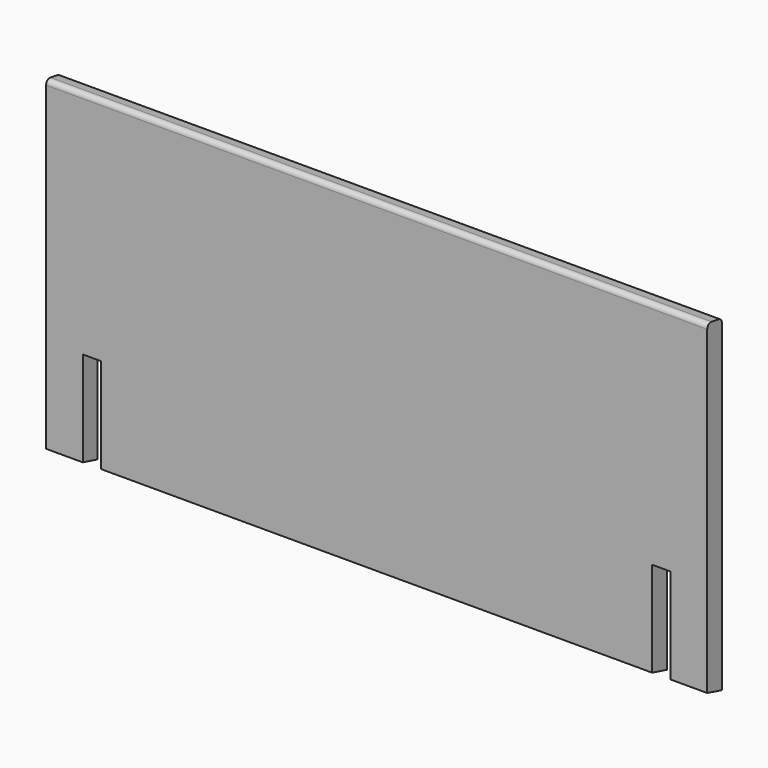
from build123d import *

# Parameters (mm, degrees)
F1_DEPTH = 25.4
F3_DEPTH = 914.4
F4_R     = 6.35
F6_DEPTH = 914.401


with BuildPart() as f1:
    # F0 (on Front) → F1 (new body)
    with BuildSketch(Plane.XZ):
        Polygon((483.0016511798, 164.7552716235), (-431.3983488202, 164.7552716235), (-431.3983488202, -292.4447283765), (-380.5983488202, -292.4447283765), (-380.5983488202, -154.1671283765), (-355.1983488202, -154.1671283765), (-355.1983488202, -292.4447283765), (406.8016511798, -292.4447283765), (406.8016511798, -154.1671283765), (432.2016511798, -154.1671283765), (432.2016511798, -292.4447283765), (483.0016511798, -292.4447283765), align=None)
        Polygon((483.0016511798, 164.7552716235), (-431.3983488202, 164.7552716235), (-431.3983488202, -292.4447283765), (-380.5983488202, -292.4447283765), (-380.5983488202, -154.1671283765), (-355.1983488202, -154.1671283765), (-355.1983488202, -292.4447283765), (406.8016511798, -292.4447283765), (406.8016511798, -154.1671283765), (432.2016511798, -154.1671283765), (432.2016511798, -292.4447283765), (483.0016511798, -292.4447283765), align=None)
    extrude(amount=F1_DEPTH)

    # F2 (on face) → F3 (cut)
    with BuildSketch(Plane.YZ.offset(483.0016511798)):
        Polygon((0, 164.7552716235), (-25.4, 164.7552716235), (0, 160.2765663135), align=None)
    extrude(amount=-F3_DEPTH, mode=Mode.SUBTRACT)

    # F4
    f4_edges = [f1.edges().sort_by_distance(p)[0] for p in [
        (25.801651, 0, 160.276566),
        (25.801651, -25.4, 164.755272),
    ]]
    fillet(f4_edges, radius=F4_R)

    # F5 (on face) → F6 (cut, through all)
    with BuildSketch(Plane.YZ.offset(483.0016511798)):
        Polygon((-25.4, -292.4447283765), (0, -292.4447283765), (-25.4, -285.6388188887), align=None)
    extrude(amount=-F6_DEPTH, mode=Mode.SUBTRACT)


solid = f1.part
